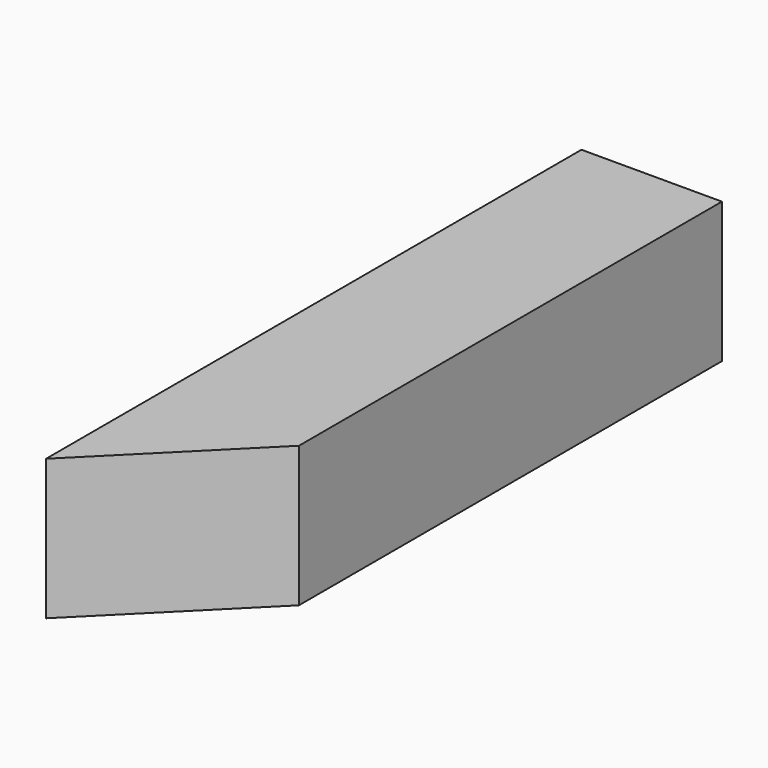
from build123d import *

# Parameters (mm, degrees)
F0_W     = 32.0802
F0_H     = 152.8318
F1_DEPTH = 16.0401
F3_DEPTH = 32.0802


with BuildPart() as f1:
    # F0 (on Top) → F1 (new body, symmetric)
    with BuildSketch(Plane.XY):
        Rectangle(F0_W, F0_H)
    extrude(amount=F1_DEPTH, both=True)

    # F2 (on face) → F3 (cut, through all)
    with BuildSketch(Plane.XY.offset(16.0401)):
        Polygon((-16.0401, -76.4159), (16.0401, -76.4159), (16.0401, -44.3357), align=None)
    extrude(amount=-F3_DEPTH, mode=Mode.SUBTRACT)


solid = f1.part
